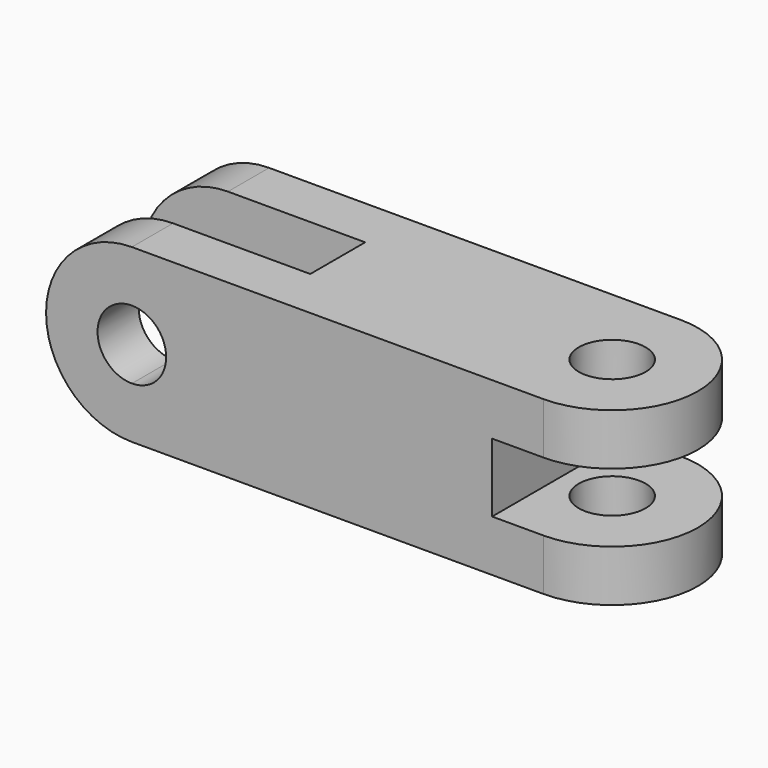
from build123d import *

# Parameters (mm, degrees)
F0_R     = 6.1819299208
F1_DEPTH = 31.75
F3_DEPTH = 31.751
F2_W     = 15.875
F2_H     = 12.7
F2_W_2   = 9.525
F4_DEPTH = 31.751
F5_DEPTH = 31.751


with BuildPart() as f1:
    # F0 (on Top) → F1 (new body)
    with BuildSketch(Plane.XY):
        with BuildLine():
            Line((43.7930202991, -15.8396554504), (-48.2819797009, -15.8396554504))
            Line((-48.2819797009, -15.8396554504), (-48.2819797009, -25.3646554504))
            Line((-48.2819797009, -25.3646554504), (-7.0069797009, -25.3646554504))
            Line((-7.0069797009, -25.3646554504), (-7.0069797009, -38.0646554504))
            Line((-7.0069797009, -38.0646554504), (-48.2819797009, -38.0646554504))
            Line((-48.2819797009, -38.0646554504), (-48.2819797009, -47.5896554504))
            Line((-48.2819797009, -47.5896554504), (43.7930202991, -47.5896554504))
            ThreePointArc((43.7930202991, -47.5896554504), (59.6680202991, -31.7146554504), (43.7930202991, -15.8396554504))
        make_face()
        with Locations((43.7930202991, -31.7146554504)):
            Circle(F0_R, mode=Mode.SUBTRACT)
    extrude(amount=F1_DEPTH)

    # F2 (on face) → F3 (cut, through all)
    with BuildSketch(Plane.XZ.offset(47.5896554504)):
        with BuildLine():
            Line((-32.4069797009, 9.525), (-32.4069797009, 22.225))
            ThreePointArc((-32.4069797009, 22.225), (-38.7569797009, 15.875), (-32.4069797009, 9.525))
        make_face()
        with BuildLine():
            ThreePointArc((-26.0569797009, 15.875), (-27.9168516404, 20.3651280605), (-32.4069797009, 22.225))
            Line((-32.4069797009, 22.225), (-32.4069797009, 9.525))
            ThreePointArc((-32.4069797009, 9.525), (-27.9168516404, 11.3848719395), (-26.0569797009, 15.875))
        make_face()
    extrude(amount=-F3_DEPTH, mode=Mode.SUBTRACT)

    # F2 (on face) → F4 (cut, through all)
    with BuildSketch(Plane.XZ.offset(47.5896554504)):
        with Locations((51.7305202991, 15.875)):
            Rectangle(F2_W, F2_H)
        with Locations((39.0305202991, 15.875)):
            Rectangle(F2_W_2, F2_H)
    extrude(amount=-F4_DEPTH, mode=Mode.SUBTRACT)

    # F2 (on face) → F5 (cut, through all)
    with BuildSketch(Plane.XZ.offset(47.5896554504)):
        with BuildLine():
            ThreePointArc((-48.2819797009, 15.875), (-43.6322998523, 27.1003201513), (-32.4069797009, 31.75))
            Line((-32.4069797009, 31.75), (-48.2819797009, 31.75))
            Line((-48.2819797009, 31.75), (-48.2819797009, 15.875))
        make_face()
        with BuildLine():
            ThreePointArc((-32.4069797009, 0), (-43.6322998523, 4.6496798487), (-48.2819797009, 15.875))
            Line((-48.2819797009, 15.875), (-48.2819797009, 0))
            Line((-48.2819797009, 0), (-32.4069797009, 0))
        make_face()
    extrude(amount=-F5_DEPTH, mode=Mode.SUBTRACT)


solid = f1.part
